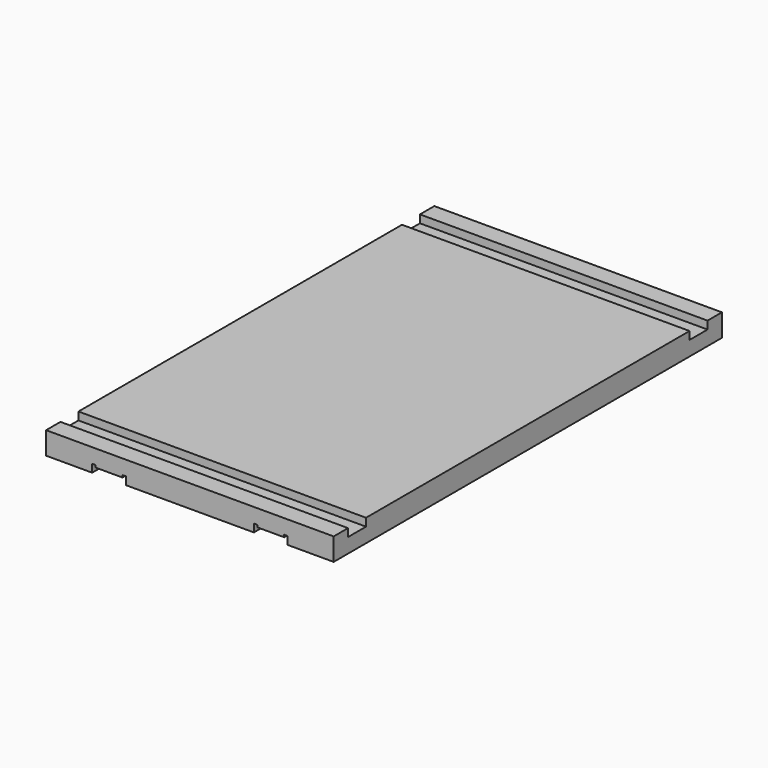
from build123d import *

# Parameters (mm, degrees)
F0_W     = 203.2
F0_H     = 15.875
F1_DEPTH = 342.9
F3_DEPTH = 342.9
F4_W     = 15.875
F4_H     = 5.55625
F5_DEPTH = 203.2


with BuildPart() as f1:
    # F0 (on Front) → F1 (new body)
    with BuildSketch(Plane.XZ):
        with Locations((101.6, 7.9375)):
            Rectangle(F0_W, F0_H)
    extrude(amount=F1_DEPTH)

    # F2 (on face) → F3 (cut, through all)
    with BuildSketch(Plane.XZ.offset(342.9)):
        Polygon((32.54375, 5.55625), (32.54375, 0), (56.35625, 0), (56.35625, 5.55625), (53.975, 5.55625), (53.975, 3.96875), (34.925, 3.96875), (34.925, 5.55625), align=None)
        Polygon((170.65625, 5.55625), (168.275, 5.55625), (168.275, 3.96875), (149.225, 3.96875), (149.225, 5.55625), (146.84375, 5.55625), (146.84375, 0), (170.65625, 0), align=None)
    extrude(amount=-F3_DEPTH, mode=Mode.SUBTRACT)

    # F4 (on face) → F5 (cut, through all)
    with BuildSketch(Plane(origin=(0, 0, 0), x_dir=(0, -1, 0), z_dir=(-1, 0, 0))):
        with Locations((20.6375, 13.096875)):
            Rectangle(F4_W, F4_H)
        with Locations((322.2625, 13.096875)):
            Rectangle(F4_W, F4_H)
    extrude(amount=-F5_DEPTH, mode=Mode.SUBTRACT)


solid = f1.part
